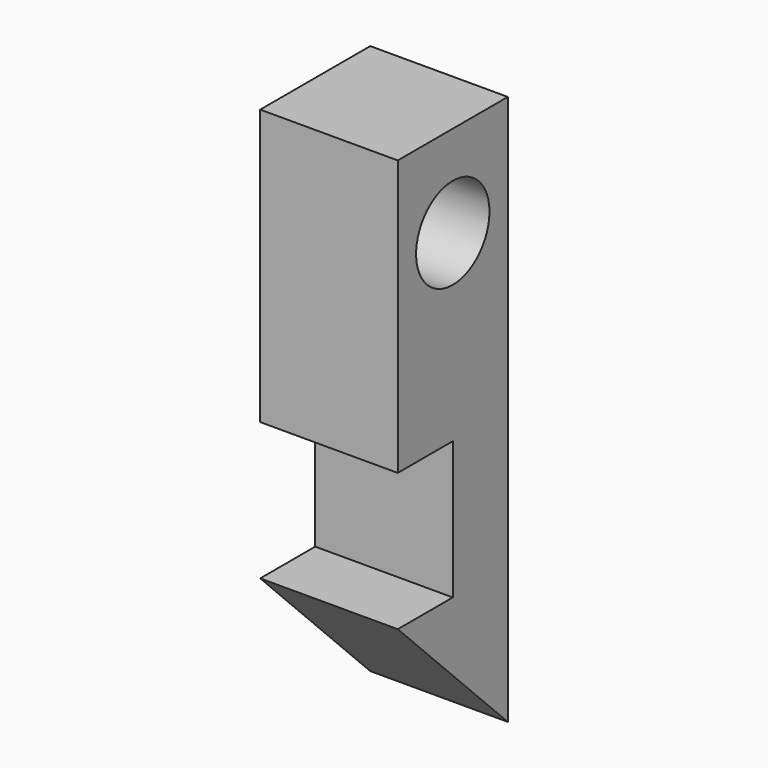
from build123d import *

# Parameters (mm, degrees)
F0_R     = 6.35
F1_DEPTH = 9.525


with BuildPart() as f1:
    # F0 (on Right) → F1 (new body, symmetric)
    with BuildSketch(Plane.YZ):
        Polygon((9.525, 38.1), (-9.525, 38.1), (-9.525, 0), (0, 0), (0, -19.05), (-9.525, -19.05), (9.525, -38.1), align=None)
        with Locations((0, 25.4)):
            Circle(F0_R, mode=Mode.SUBTRACT)
    extrude(amount=F1_DEPTH, both=True)


solid = f1.part
